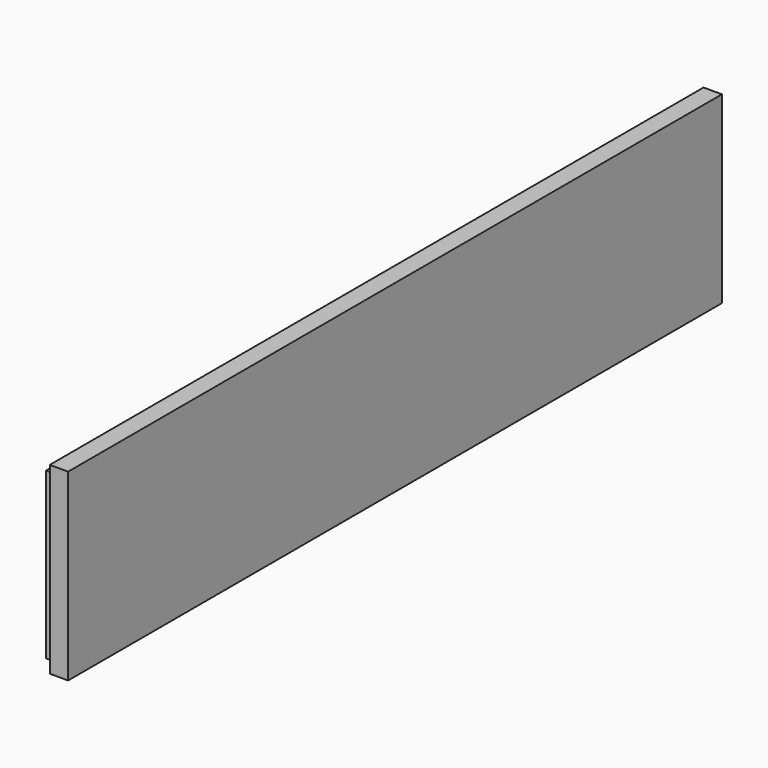
from build123d import *

# Parameters (mm, degrees)
F0_W     = 200
F0_H     = 45
F1_DEPTH = 9
F2_W     = 4.5
F2_H     = 4.5
F3_DEPTH = 200.001
F4_W     = 4.5
F4_H     = 4.5
F5_DEPTH = 40.501


with BuildPart() as f1:
    # F0 (on Right) → F1 (new body)
    with BuildSketch(Plane.YZ):
        Rectangle(F0_W, F0_H)
    extrude(amount=F1_DEPTH)

    # F2 (on face) → F3 (cut, through all)
    with BuildSketch(Plane.XZ.offset(100)):
        with Locations((2.25, 20.25)):
            Rectangle(F2_W, F2_H)
    extrude(amount=-F3_DEPTH, mode=Mode.SUBTRACT)

    # F4 (on face) → F5 (cut, through all)
    with BuildSketch(Plane.XY.offset(18)):
        with Locations((2.25, -97.75)):
            Rectangle(F4_W, F4_H)
    extrude(amount=-F5_DEPTH, mode=Mode.SUBTRACT)


solid = f1.part
